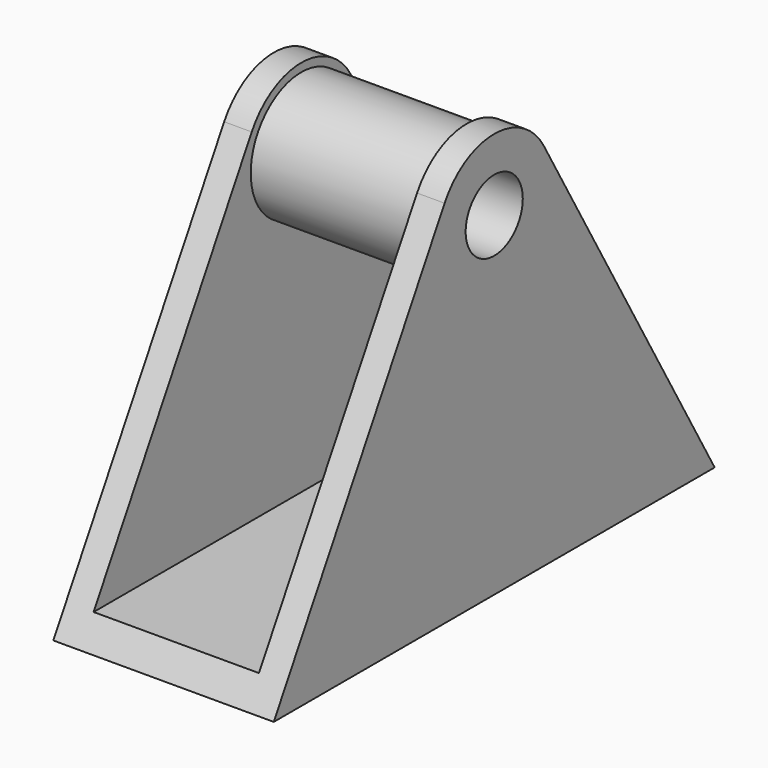
from build123d import *

# Parameters (mm, degrees)
F0_R     = 3.238814
F1_DEPTH = 10
F2_T     = -2.5


with BuildPart() as f1:
    # F0 (on Right) → F1 (new body, symmetric)
    with BuildSketch(Plane.YZ):
        with BuildLine():
            Line((-25, 0), (0, 0))
            Line((0, 0), (25, 0))
            Line((25, 0), (5.626596, 33.55572))
            ThreePointArc((5.626596, 33.55572), (0, 36.804237), (-5.626596, 33.55572))
            Line((-5.626596, 33.55572), (-25, 0))
        make_face()
        with Locations((0, 30.307204)):
            Circle(F0_R, mode=Mode.SUBTRACT)
    extrude(amount=F1_DEPTH, both=True)

    # F2
    f2_openings = [f1.faces().sort_by_distance(p)[0] for p in [
        (0, 15.313298, 16.77786),
        (0, -15.313298, 16.77786),
        (0, 0, 36.804237),
    ]]
    offset(amount=F2_T, openings=f2_openings)


solid = f1.part
